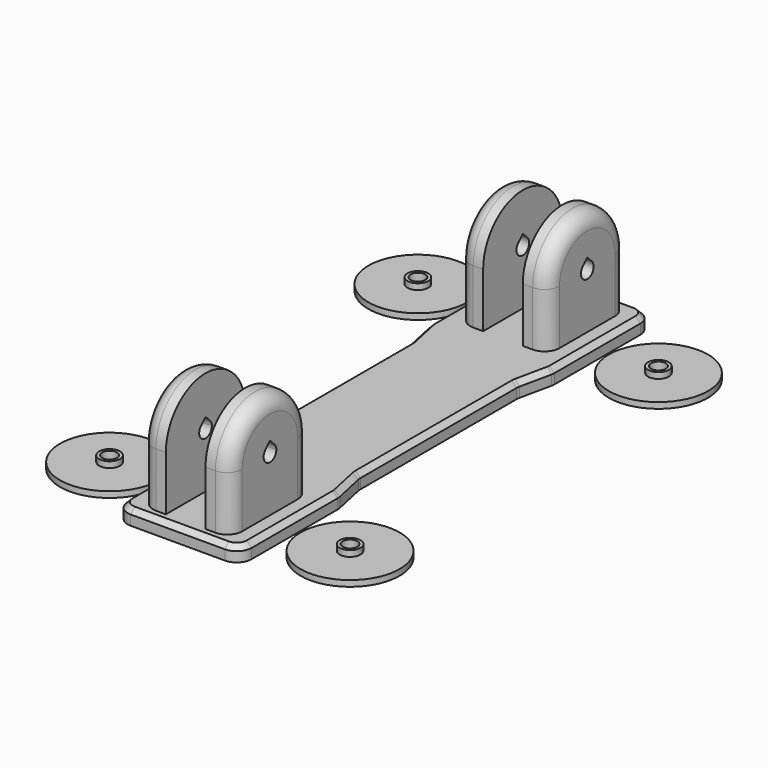
from build123d import *

# Parameters (mm, degrees)
F0_W      = 9
F0_H      = 100
F1_DEPTH  = 3
F3_DEPTH  = 5
F5_R      = 10
F5_R_2    = 1.5
F6_DEPTH  = 1.2
F7_R      = 2.1
F7_R_2    = 1.5
F8_DEPTH  = 1.2
F12_DEPTH = 3
F13_R     = 3
F14_SIZE  = 1


with BuildPart() as f1:
    # F0 (on Top) → F1 (new body)
    with BuildSketch(Plane.XY):
        Rectangle(F0_W, F0_H)
    extrude(amount=F1_DEPTH)

    # F2 (on face) → F3 (join)
    with BuildSketch(Plane(origin=(-4.5, 0, 0), x_dir=(0, -1, 0), z_dir=(-1, 0, 0))):
        with BuildLine():
            Line((-30, 3), (-30, 14))
            ThreePointArc((-30, 14), (-40, 4), (-50, 14))
            Line((-50, 14), (-50, 3))
            Line((-50, 3), (-30, 3))
        make_face()
        with BuildLine():
            ThreePointArc((-50, 14), (-40, 4), (-30, 14))
            ThreePointArc((-30, 14), (-40, 24), (-50, 14))
        make_face()
        with BuildLine():
            ThreePointArc((-38.8686291501, 15.1313708499), (-38.521792748, 14.6122934918), (-38.4, 14))
            ThreePointArc((-38.4, 14), (-40.6122934918, 12.521792748), (-41.1313708499, 15.1313708499))
            Line((-41.1313708499, 15.1313708499), (-40, 16.2627416998))
            Line((-40, 16.2627416998), (-38.8686291501, 15.1313708499))
        make_face(mode=Mode.SUBTRACT)
        with BuildLine():
            Line((-30, 3), (-30, 14))
            ThreePointArc((-30, 14), (-40, 4), (-50, 14))
            Line((-50, 14), (-50, 3))
            Line((-50, 3), (-30, 3))
        make_face()
    extrude(amount=-F3_DEPTH)

    # F4: F1 across plane


with BuildPart() as f1_1:
    add(f1.part)
    add(f1.part.mirror(Plane.XZ))



with BuildPart() as f6:
    # F5 (on Top) → F6 (new body)
    with BuildSketch(Plane.XY):
        with Locations((-19.7557806969, 38.8742797077)):
            Circle(F5_R)
        with Locations((-19.7557806969, 38.8742797077)):
            Circle(F5_R_2, mode=Mode.SUBTRACT)
    extrude(amount=F6_DEPTH)

    # F7 (on face) → F8 (join)
    with BuildSketch(Plane.XY.offset(1.2)):
        with Locations((-19.7557806969, 38.8742797077)):
            Circle(F7_R)
        with Locations((-19.7557806969, 38.8742797077)):
            Circle(F7_R_2, mode=Mode.SUBTRACT)
    extrude(amount=F8_DEPTH)


with BuildPart() as f9_1:
    # F9: instance of F6
    add(f6.part.mirror(Plane.XZ))


with BuildPart() as f1_2:
    add(f1_1.part)
    # F10: F6, F9_1, F1 across face
    add(f6.part.mirror(Plane(origin=(4.5, 0, 1.5), x_dir=(0, 1, 0), z_dir=(1, 0, 0))))
    add(f9_1.part.mirror(Plane(origin=(4.5, 0, 1.5), x_dir=(0, 1, 0), z_dir=(1, 0, 0))))
    add(f1_1.part.mirror(Plane(origin=(4.5, 0, 1.5), x_dir=(0, 1, 0), z_dir=(1, 0, 0))))

    # F11 (on Top) → F12 (join)
    with BuildSketch(Plane.XY):
        Polygon((17, 52), (-8, 52), (-8, 27), (-6.5, 20), (-6.5, 0), (15.5, 0), (15.5, 20), (17, 27), align=None)
        Polygon((15.5, 0), (-6.5, 0), (-6.5, -20), (-8, -27), (-8, -52), (17, -52), (17, -27), (15.5, -20), align=None)
    extrude(amount=F12_DEPTH)

    # F13
    f13_edges = [f1_2.edges().sort_by_distance(p)[0] for p in [
        (-8, 52, 1.5),
        (17, 52, 1.5),
        (-8, 27, 1.5),
        (-6.5, 20, 1.5),
        (-6.5, -20, 1.5),
        (-8, -27, 1.5),
        (-8, -52, 1.5),
        (17, -52, 1.5),
        (17, 27, 1.5),
        (15.5, 20, 1.5),
        (15.5, -20, 1.5),
        (17, -27, 1.5),
        (13.5, -50, 8.5),
        (-4.5, -50, 8.5),
        (-4.5, 30, 8.5),
        (13.5, 30, 8.5),
    ]]
    fillet(f13_edges, radius=F13_R)

    # F14
    f14_edges = [f1_2.edges().sort_by_distance(p)[0] for p in [
        (15.5, 0, 3),
    ]]
    chamfer(f14_edges, length=F14_SIZE)


solid = Compound([f6.part, f9_1.part, f1_2.part])
